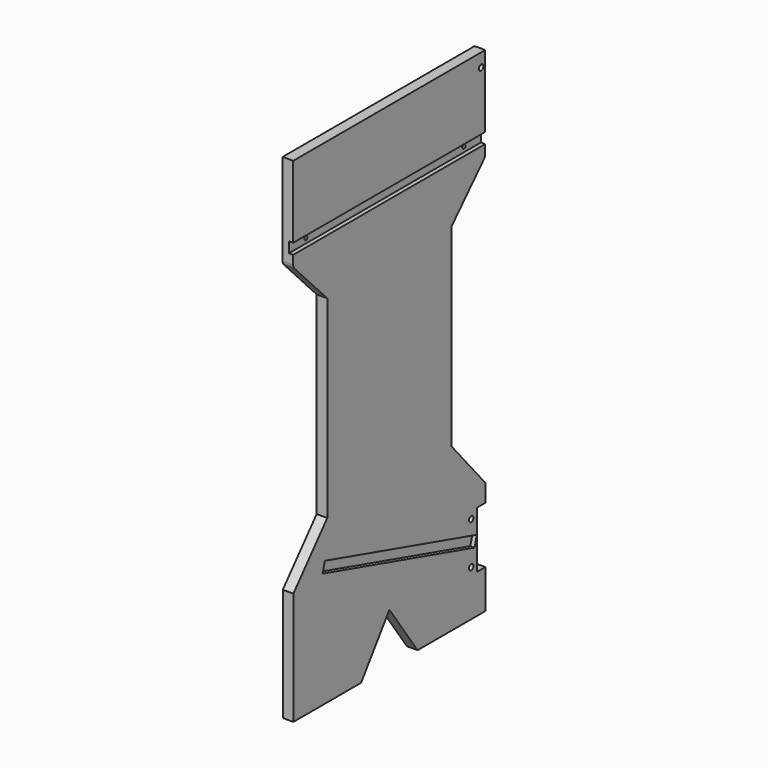
from build123d import *

# Parameters (mm, degrees)
F1_DEPTH = 19.05
F3_DEPTH = 7.62
F5_DEPTH = 7.62
F6_R     = 3.302
F6_R_2   = 5
F7_DEPTH = 19.05
F8_R     = 5
F9_DEPTH = 25.4


with BuildPart() as f1:
    # F0 (on Right) → F1 (new body)
    with BuildSketch(Plane.YZ):
        with BuildLine():
            Line((215.571838, -87.245801), (215.571838, 77.657629))
            Line((215.571838, 77.657629), (-216.228162, 77.657629))
            Line((-216.228162, 77.657629), (-216.228162, -87.245801))
            ThreePointArc((-216.228162, -87.245801), (-215.49657, -91.031394), (-213.407155, -94.271809))
            Line((-213.407155, -94.271809), (-139.7, -171.262371))
            Line((-139.7, -171.262371), (-139.7, -519.242371))
            Line((-139.7, -519.242371), (-215.9, -608.142371))
            Line((-215.9, -608.142371), (-215.9, -811.342371))
            Line((-215.9, -811.342371), (-63.5, -811.342371))
            Line((-63.5, -811.342371), (0, -721.487939))
            Line((0, -721.487939), (63.5, -811.342371))
            Line((63.5, -811.342371), (215.9, -811.342371))
            Line((215.9, -811.342371), (215.9, -741.492371))
            Line((215.9, -741.492371), (196.85, -741.492371))
            Line((196.85, -741.492371), (196.85, -639.892371))
            Line((196.85, -639.892371), (215.9, -639.892371))
            Line((215.9, -639.892371), (215.9, -608.142371))
            Line((215.9, -608.142371), (139.7, -519.242371))
            Line((139.7, -519.242371), (139.7, -171.262371))
            Line((139.7, -171.262371), (212.782136, -94.238963))
            ThreePointArc((212.782136, -94.238963), (214.848676, -91.010331), (215.571838, -87.245801))
        make_face()
    extrude(amount=F1_DEPTH)

    # F2 (on face) → F3 (cut)
    with BuildSketch(Plane.YZ.offset(19.05)):
        Polygon((191.608355, -700.919833), (196.842454, -682.602991), (-145.071934, -584.899811), (-150.306033, -603.216653), align=None)
    extrude(amount=-F3_DEPTH, mode=Mode.SUBTRACT)

    # F4 (on face) → F5 (cut)
    with BuildSketch(Plane.YZ.offset(19.05)):
        Polygon((-216.228162, -71.276438), (216.173725, -71.276438), (215.571838, -52.226438), (-216.228162, -52.226438), align=None)
    extrude(amount=-F5_DEPTH, mode=Mode.SUBTRACT)

    # F6 (on face) → F7 (cut)
    with BuildSketch(Plane.YZ):
        with Locations((-178.128162, -62.640438)):
            Circle(F6_R)
        with Locations((177.471838, -62.640438)):
            Circle(F6_R)
        with Locations((206.427838, 53.607629)):
            Circle(F6_R_2)
    extrude(amount=F7_DEPTH, mode=Mode.SUBTRACT)

    # F8 (on face) → F9 (cut)
    with BuildSketch(Plane.YZ):
        with Locations((184.15, -728.792371)):
            Circle(F8_R)
        with Locations((184.15, -652.592371)):
            Circle(F8_R)
    extrude(amount=F9_DEPTH, mode=Mode.SUBTRACT)


solid = f1.part
